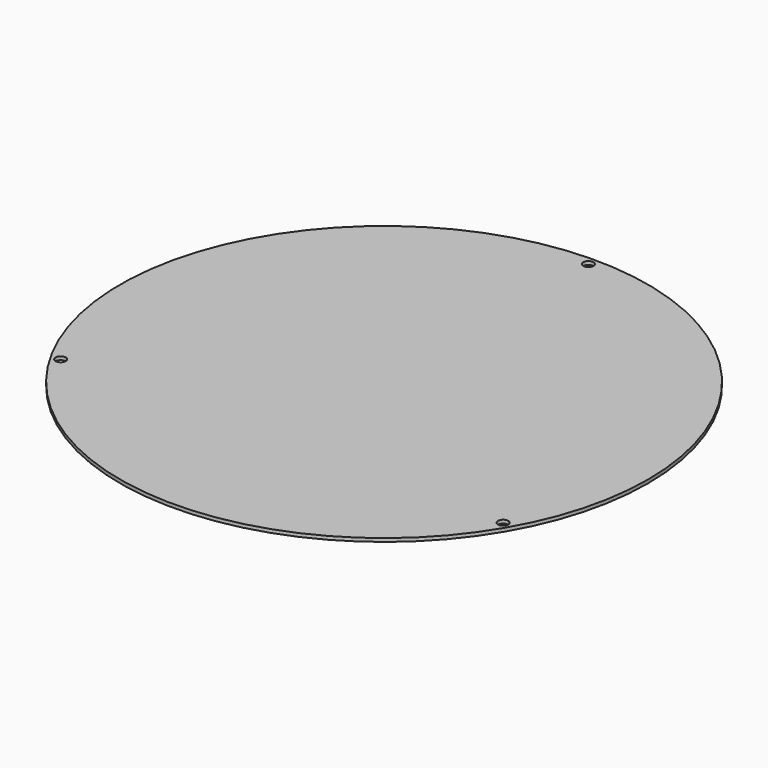
from build123d import *

# Parameters (mm, degrees)
F0_R     = 155
F0_R_2   = 3
F1_DEPTH = 2


with BuildPart() as f1:
    # F0 (on Top) → F1 (new body)
    with BuildSketch(Plane.XY):
        Circle(F0_R)
        with Locations((-129.903811, -75)):
            Circle(F0_R_2, mode=Mode.SUBTRACT)
        with Locations((129.903811, -75)):
            Circle(F0_R_2, mode=Mode.SUBTRACT)
        with Locations((0, 150)):
            Circle(F0_R_2, mode=Mode.SUBTRACT)
    extrude(amount=F1_DEPTH)


solid = f1.part
